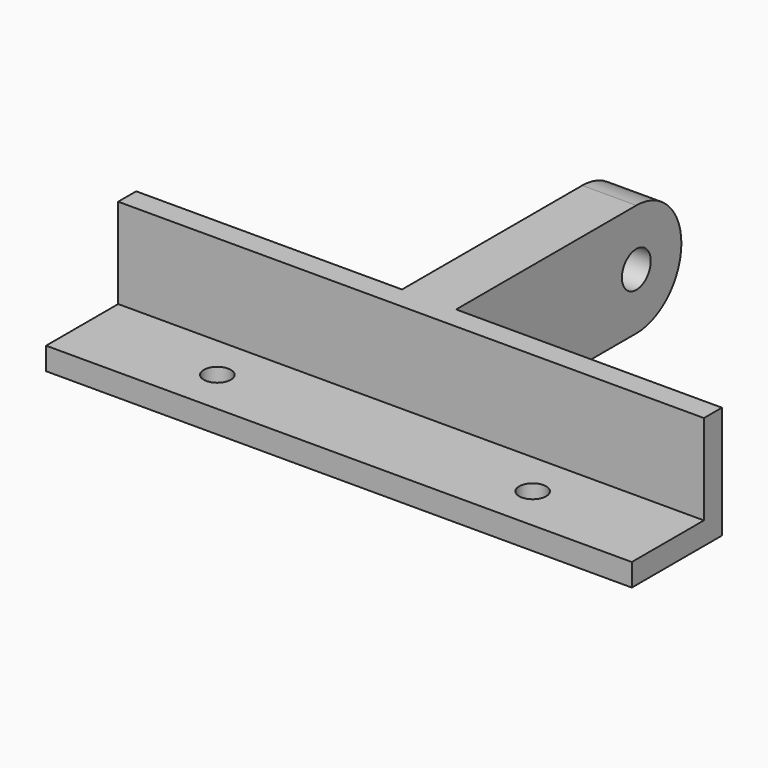
from build123d import *

# Parameters (mm, degrees)
F0_W          = 65
F0_H          = 12.5
F0_R          = 1.5
F1_DEPTH      = 2.5
F2_W          = 65
F2_H          = 2.5
F3_DEPTH      = 10
F4_R          = 2
F5_DEPTH      = 3
F5_DEPTH_BACK = 3


with BuildPart() as f1:
    # F0 (on Top) → F1 (new body)
    with BuildSketch(Plane.XY):
        Rectangle(F0_W, F0_H)
        with Locations((-17.5, -1.25)):
            Circle(F0_R, mode=Mode.SUBTRACT)
        with Locations((17.5, -1.25)):
            Circle(F0_R, mode=Mode.SUBTRACT)
    extrude(amount=F1_DEPTH)

    # F2 (on face) → F3 (join)
    with BuildSketch(Plane.XY.offset(2.5)):
        with Locations((0, 5)):
            Rectangle(F2_W, F2_H)
    extrude(amount=F3_DEPTH)

    # F4 (on Right) → F5 (join, two sides)
    with BuildSketch(Plane.YZ) as f5_sk:
        with BuildLine():
            Line((6.25, 12.5), (6.25, 0))
            Line((6.25, 0), (31.25, 0))
            ThreePointArc((31.25, 0), (37.5, 6.25), (31.25, 12.5))
            Line((31.25, 12.5), (6.25, 12.5))
        make_face()
        with Locations((31.25, 6.25)):
            Circle(F4_R, mode=Mode.SUBTRACT)
    extrude(amount=F5_DEPTH)
    extrude(f5_sk.sketch, amount=-F5_DEPTH_BACK)


solid = f1.part
